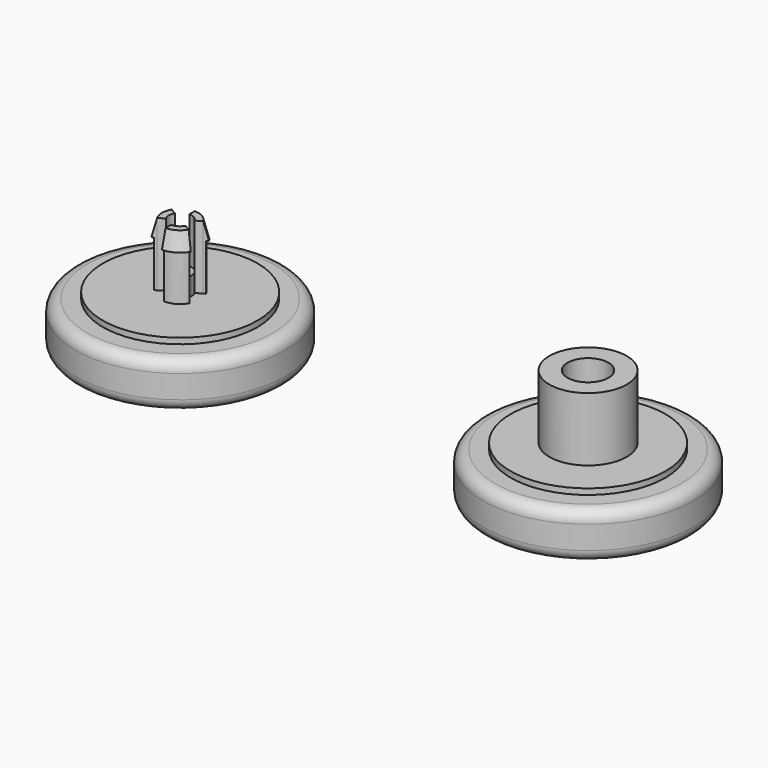
from build123d import *

# Parameters (mm, degrees)
F0_R      = 11.5
F0_R_2    = 8.5
F1_DEPTH  = 5.08
F0_R_3    = 4.25
F2_DEPTH  = 5.715
F3_DEPTH  = 12.715
F4_R      = 1.27
F5_R      = 11.5
F5_R_2    = 8.5
F6_DEPTH  = 5.08
F5_R_3    = 2.5
F7_DEPTH  = 5.715
F8_DEPTH  = 12.715
F9_R      = 2.25
F10_DEPTH = 7
F11_R     = 1.27
F12_R     = 2.55
F13_DEPTH = 2
F16_R     = 1.25
F17_DEPTH = 5
F19_DEPTH = 7


with BuildPart() as f1:
    # F0 (on Top) → F1 (new body)
    with BuildSketch(Plane.XY):
        Circle(F0_R)
        Circle(F0_R_2, mode=Mode.SUBTRACT)
    extrude(amount=F1_DEPTH)

    # F0 (on Top) → F2 (join)
    with BuildSketch(Plane.XY):
        Circle(F0_R_2)
        Circle(F0_R_3, mode=Mode.SUBTRACT)
    extrude(amount=F2_DEPTH)

    # F0 (on Top) → F3 (join)
    with BuildSketch(Plane.XY):
        Circle(F0_R_3)
    extrude(amount=F3_DEPTH)

    # F4
    f4_edges = [f1.edges().sort_by_distance(p)[0] for p in [
        (-11.5, 0, 5.08),
        (-11.5, 0, 0),
    ]]
    fillet(f4_edges, radius=F4_R)

    # F9 (on face) → F10 (cut)
    with BuildSketch(Plane.XY.offset(12.715)):
        Circle(F9_R)
    extrude(amount=-F10_DEPTH, mode=Mode.SUBTRACT)

    # F12 (on face) → F13 (cut)
    with BuildSketch(Plane.XY.offset(5.715)):
        Circle(F12_R)
    extrude(amount=F13_DEPTH, mode=Mode.SUBTRACT)

    # F20 (on Front) → F21 (revolve, cut)
    with BuildSketch(Plane.XZ):
        with BuildLine():
            Line((0, 1.27), (0, 0))
            Line((0, 0), (10.16, 0))
            ThreePointArc((10.16, 0), (5.1195336702, 0.9512693614), (0, 1.27))
        make_face()
    revolve(axis=Axis((0, 0, -1.3599131489), (0, 0, -1)), mode=Mode.SUBTRACT)


with BuildPart() as f6:
    # F5 (on Top) → F6 (new body)
    with BuildSketch(Plane.XY):
        with Locations((-44.7985892718, 0)):
            Circle(F5_R)
        with Locations((-44.7985892718, 0)):
            Circle(F5_R_2, mode=Mode.SUBTRACT)
    extrude(amount=F6_DEPTH)

    # F5 (on Top) → F7 (join)
    with BuildSketch(Plane.XY):
        with Locations((-44.7985892718, 0)):
            Circle(F5_R_2)
        with Locations((-44.7985892718, 0)):
            Circle(F5_R_3, mode=Mode.SUBTRACT)
    extrude(amount=F7_DEPTH)

    # F5 (on Top) → F8 (join)
    with BuildSketch(Plane.XY):
        with Locations((-44.7985892718, 0)):
            Circle(F5_R_3)
    extrude(amount=F8_DEPTH)

    # F11
    f11_edges = [f6.edges().sort_by_distance(p)[0] for p in [
        (-56.298589, 0, 5.08),
        (-56.298589, 0, 0),
    ]]
    fillet(f11_edges, radius=F11_R)

    # F14 (on Front) → F15 (revolve, cut)
    with BuildSketch(Plane.XZ):
        Polygon((-42.5485892718, 10.815), (-42.5485892718, 5.715), (-41.8997183442, 5.715), (-41.6368916631, 10.815), (-42.2985892718, 10.815), align=None)
        Polygon((-42.5485892718, 12.715), (-42.7985892718, 12.715), (-42.2985892718, 10.815), (-41.6368916631, 10.815), (-41.8774240868, 12.8033112086), align=None)
    revolve(axis=Axis((-44.7985892718, 0, 6.3575), (0, 0, 1)), mode=Mode.SUBTRACT)

    # F16 (on face) → F17 (cut)
    with BuildSketch(Plane.XY.offset(12.715)):
        with Locations((-44.7985892718, 0)):
            Circle(F16_R)
    extrude(amount=-F17_DEPTH, mode=Mode.SUBTRACT)

    # F18 (on face) → F19 (cut)
    with BuildSketch(Plane.XY.offset(12.715)):
        with BuildLine():
            Line((-44.7985892718, 2), (-44.7985892718, 3.5383357842))
            ThreePointArc((-44.7985892718, 3.5383357842), (-46.5677571638, 3.0642886762), (-47.862877948, 1.7691678921))
            Line((-47.862877948, 1.7691678921), (-46.5306400793, 1))
            ThreePointArc((-46.5306400793, 1), (-45.7985892718, 1.7320508076), (-44.7985892718, 2))
        make_face()
        with BuildLine():
            ThreePointArc((-41.7343005956, -1.7691678921), (-41.3808193558, -0.9157886889), (-41.2602534876, 0))
            ThreePointArc((-41.2602534876, 0), (-41.3808193558, 0.9157886889), (-41.7343005956, 1.7691678921))
            Line((-41.7343005956, 1.7691678921), (-43.0665384642, 1))
            ThreePointArc((-43.0665384642, 1), (-42.8667376192, 0.5176380902), (-42.7985892718, 0))
            ThreePointArc((-42.7985892718, 0), (-42.8667376192, -0.5176380902), (-43.0665384642, -1))
            Line((-43.0665384642, -1), (-41.7343005956, -1.7691678921))
        make_face()
        with BuildLine():
            ThreePointArc((-47.862877948, -1.7691678921), (-46.5677571638, -3.0642886762), (-44.7985892718, -3.5383357842))
            Line((-44.7985892718, -3.5383357842), (-44.7985892718, -2))
            ThreePointArc((-44.7985892718, -2), (-45.7985892718, -1.7320508076), (-46.5306400793, -1))
            Line((-46.5306400793, -1), (-47.862877948, -1.7691678921))
        make_face()
        with BuildLine():
            ThreePointArc((-42.7985892718, 0), (-42.8667376192, 0.5176380902), (-43.0665384642, 1))
            Line((-43.0665384642, 1), (-43.716057517, 0.625))
            ThreePointArc((-43.716057517, 0.625), (-43.5911819889, 0.3235238064), (-43.5485892718, 0))
            ThreePointArc((-43.5485892718, 0), (-43.5911819889, -0.3235238064), (-43.716057517, -0.625))
            Line((-43.716057517, -0.625), (-43.0665384642, -1))
            ThreePointArc((-43.0665384642, -1), (-42.8667376192, -0.5176380902), (-42.7985892718, 0))
        make_face()
        with BuildLine():
            ThreePointArc((-46.5306400793, -1), (-45.7985892718, -1.7320508076), (-44.7985892718, -2))
            Line((-44.7985892718, -2), (-44.7985892718, -1.25))
            ThreePointArc((-44.7985892718, -1.25), (-45.4235892718, -1.0825317547), (-45.8811210265, -0.625))
            Line((-45.8811210265, -0.625), (-46.5306400793, -1))
        make_face()
        with BuildLine():
            Line((-44.7985892718, 1.25), (-44.7985892718, 2))
            ThreePointArc((-44.7985892718, 2), (-45.7985892718, 1.7320508076), (-46.5306400793, 1))
            Line((-46.5306400793, 1), (-45.8811210265, 0.625))
            ThreePointArc((-45.8811210265, 0.625), (-45.4235892718, 1.0825317547), (-44.7985892718, 1.25))
        make_face()
    extrude(amount=-F19_DEPTH, mode=Mode.SUBTRACT)

    # F22 (on Front) → F23 (revolve, cut)
    with BuildSketch(Plane.XZ):
        with BuildLine():
            Line((-44.7985892718, 1.27), (-44.7985892718, 0))
            Line((-44.7985892718, 0), (-34.6385892718, 0))
            ThreePointArc((-34.6385892718, 0), (-39.6790556016, 0.9512693614), (-44.7985892718, 1.27))
        make_face()
    revolve(axis=Axis((-44.7985892718, 0, 0.635), (0, 0, 1)), mode=Mode.SUBTRACT)


solid = Compound([f1.part, f6.part])
